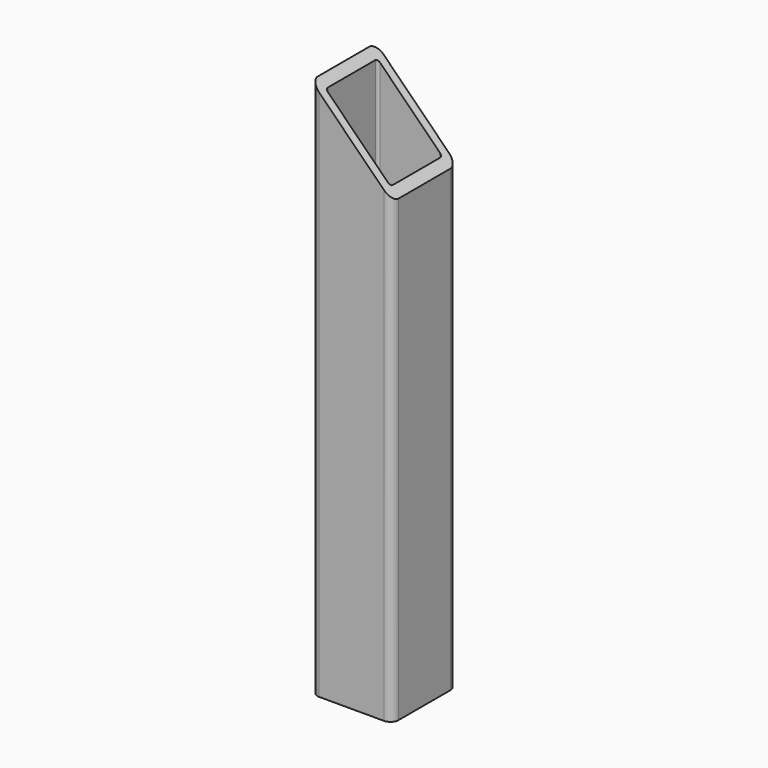
from build123d import *

# Parameters (mm, degrees)
F0_W     = 30
F0_H     = 30
F0_W_2   = 24
F0_H_2   = 24
F1_DEPTH = 200
F2_R     = 1
F3_R     = 3
F5_DEPTH = 30.001


with BuildPart() as f1:
    # F0 (on Top) → F1 (new body)
    with BuildSketch(Plane.XY):
        Rectangle(F0_W, F0_H)
        Rectangle(F0_W_2, F0_H_2, mode=Mode.SUBTRACT)
    extrude(amount=F1_DEPTH)

    # F2
    f2_edges = [f1.edges().sort_by_distance(p)[0] for p in [
        (-12, -12, 100),
        (-12, 12, 100),
        (12, 12, 100),
        (12, -12, 100),
    ]]
    fillet(f2_edges, radius=F2_R)

    # F3
    f3_edges = [f1.edges().sort_by_distance(p)[0] for p in [
        (-15, 15, 100),
        (-15, -15, 100),
        (15, 15, 100),
        (15, -15, 100),
    ]]
    fillet(f3_edges, radius=F3_R)

    # F4 (on face) → F5 (cut, through all)
    with BuildSketch(Plane.XZ.offset(15)):
        Polygon((-12, 200), (-12, 197), (12, 173), (12, 200), align=None)
        Polygon((-12, 200), (-15, 200), (-12, 197), align=None)
        Polygon((12, 200), (12, 173), (15, 170), (15, 200), align=None)
    extrude(amount=-F5_DEPTH, mode=Mode.SUBTRACT)


solid = f1.part
